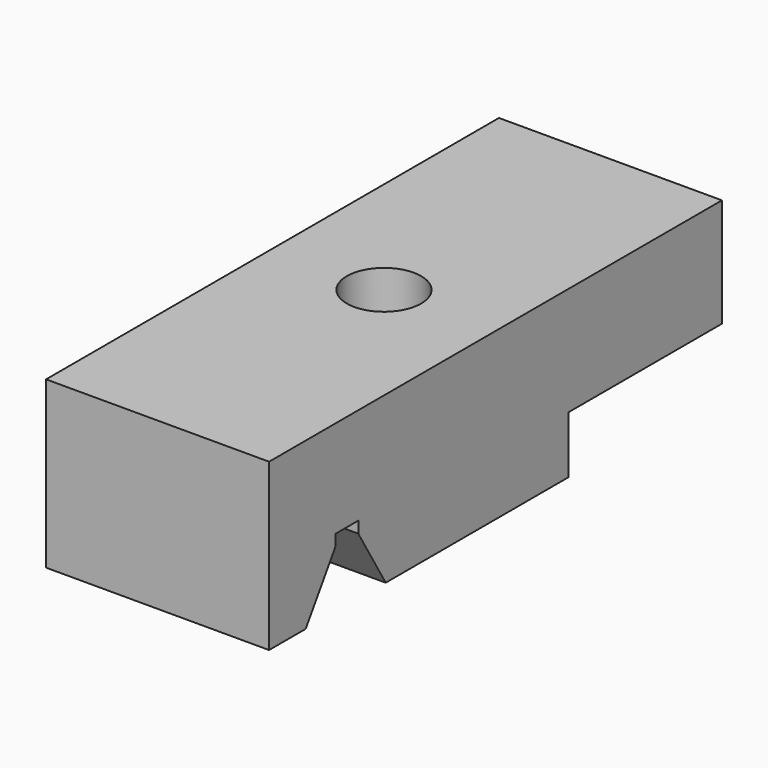
from build123d import *

# Parameters (mm, degrees)
F1_DEPTH = 39
F2_R     = 6.5
F3_DEPTH = 35


with BuildPart() as f1:
    # F0 (on Right) → F1 (new body)
    with BuildSketch(Plane.YZ):
        Polygon((49.5, 0), (0, 0), (-49.5, 0), (-49.5, -29), (-41.5, -29), (-35, -19), (-35, -17), (-30, -17), (-30, -19), (-24, -29), (16, -29), (16, -19), (49.5, -19), align=None)
    extrude(amount=-F1_DEPTH)

    # F2 (on Top) → F3 (cut)
    with BuildSketch(Plane.XY):
        with Locations((-19.5, 0)):
            Circle(F2_R)
    extrude(amount=-F3_DEPTH, mode=Mode.SUBTRACT)


solid = f1.part
